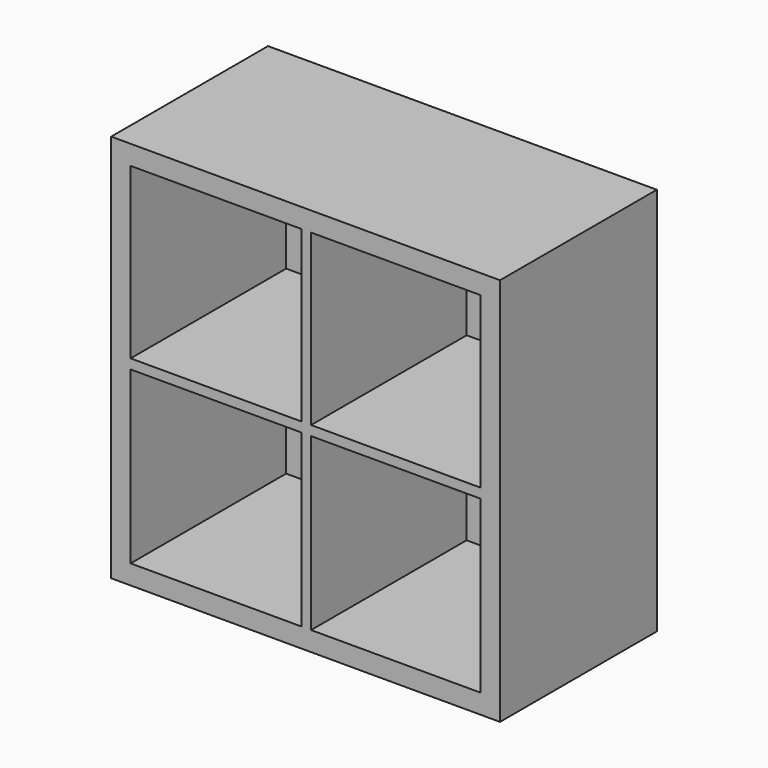
from build123d import *

# Parameters (mm, degrees)
F0_W     = 762
F0_H     = 762
F0_W_2   = 334.645
F0_H_2   = 334.645
F0_W_3   = 332.105
F0_H_3   = 332.105
F1_DEPTH = 381
F2_W     = 762
F2_H     = 762
F3_DEPTH = 3.175


with BuildPart() as f1:
    # F0 (on Front) → F1 (new body)
    with BuildSketch(Plane.XZ):
        with Locations((381, -381)):
            Rectangle(F0_W, F0_H)
        with Locations((205.4225, -556.5775)):
            Rectangle(F0_W_2, F0_H_2, mode=Mode.SUBTRACT)
        with Locations((557.8475, -556.5775)):
            Rectangle(F0_W_3, F0_H_2, mode=Mode.SUBTRACT)
        with Locations((205.4225, -204.1525)):
            Rectangle(F0_W_2, F0_H_3, mode=Mode.SUBTRACT)
        with Locations((557.8475, -204.1525)):
            Rectangle(F0_W_3, F0_H_3, mode=Mode.SUBTRACT)
    extrude(amount=-F1_DEPTH)

    # F2 (on face) → F3 (join)
    with BuildSketch(Plane(origin=(0, 381, 0), x_dir=(-1, 0, 0), z_dir=(0, 1, 0))):
        with Locations((-381, -381)):
            Rectangle(F2_W, F2_H)
    extrude(amount=F3_DEPTH)


solid = f1.part
